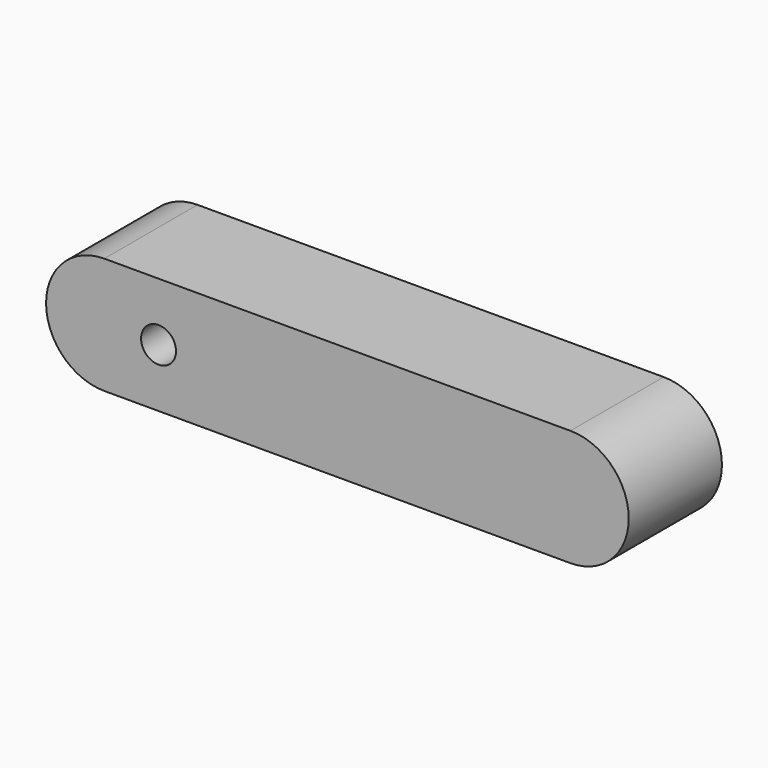
from build123d import *

# Parameters (mm, degrees)
F0_W     = 50.8
F0_H     = 12.7
F0_R     = 1.905
F1_DEPTH = 12.7


with BuildPart() as f1:
    # F0 (on Front) → F1 (new body)
    with BuildSketch(Plane.XZ):
        with Locations((-7.414306, -2.951413)):
            Rectangle(F0_W, F0_H)
        with Locations((-26.906161, -2.951413)):
            Circle(F0_R, mode=Mode.SUBTRACT)
        with BuildLine():
            Line((-32.814306, -9.301413), (-32.814306, 3.398587))
            ThreePointArc((-32.814306, 3.398587), (-39.164306, -2.951413), (-32.814306, -9.301413))
        make_face()
        with BuildLine():
            ThreePointArc((17.985694, -9.301413), (24.335694, -2.951413), (17.985694, 3.398587))
            Line((17.985694, 3.398587), (17.985694, -9.301413))
        make_face()
    extrude(amount=F1_DEPTH)


solid = f1.part
